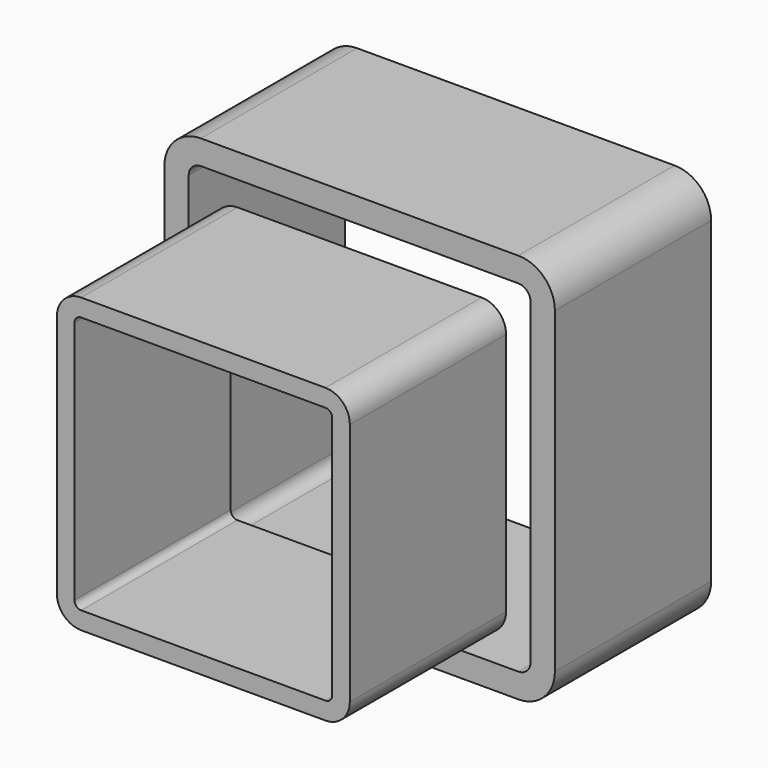
from build123d import *

# Parameters (mm, degrees)
F0_W     = 50.8
F0_H     = 50.8
F1_DEPTH = 25.4
F2_R     = 4.7498
F3_T     = -3.175
F4_W     = 38.1
F4_H     = 38.1
F5_DEPTH = 25.4
F6_R     = 3.175
F7_T     = -2.286


with BuildPart() as f1:
    # F0 (on Front) → F1 (new body)
    with BuildSketch(Plane.XZ):
        Rectangle(F0_W, F0_H)
    extrude(amount=-F1_DEPTH)

    # F2
    f2_edges = [f1.edges().sort_by_distance(p)[0] for p in [
        (-25.4, 12.7, 25.4),
        (25.4, 12.7, 25.4),
        (25.4, 12.7, -25.4),
        (-25.4, 12.7, -25.4),
    ]]
    fillet(f2_edges, radius=F2_R)

    # F3
    f3_openings = [f1.faces().sort_by_distance(p)[0] for p in [
        (0, 25.4, 0),
        (0, 0, 0),
    ]]
    offset(amount=F3_T, openings=f3_openings)


with BuildPart() as f5:
    # F4 (on Front) → F5 (new body)
    with BuildSketch(Plane.XZ):
        Rectangle(F4_W, F4_H)
    extrude(amount=F5_DEPTH)

    # F6
    f6_edges = [f5.edges().sort_by_distance(p)[0] for p in [
        (-19.05, -12.7, 19.05),
        (19.05, -12.7, 19.05),
        (19.05, -12.7, -19.05),
        (-19.05, -12.7, -19.05),
    ]]
    fillet(f6_edges, radius=F6_R)

    # F7
    f7_openings = [f5.faces().sort_by_distance(p)[0] for p in [
        (0, -25.4, 0),
        (0, 0, 0),
    ]]
    offset(amount=F7_T, openings=f7_openings)


solid = Compound([f1.part, f5.part])
